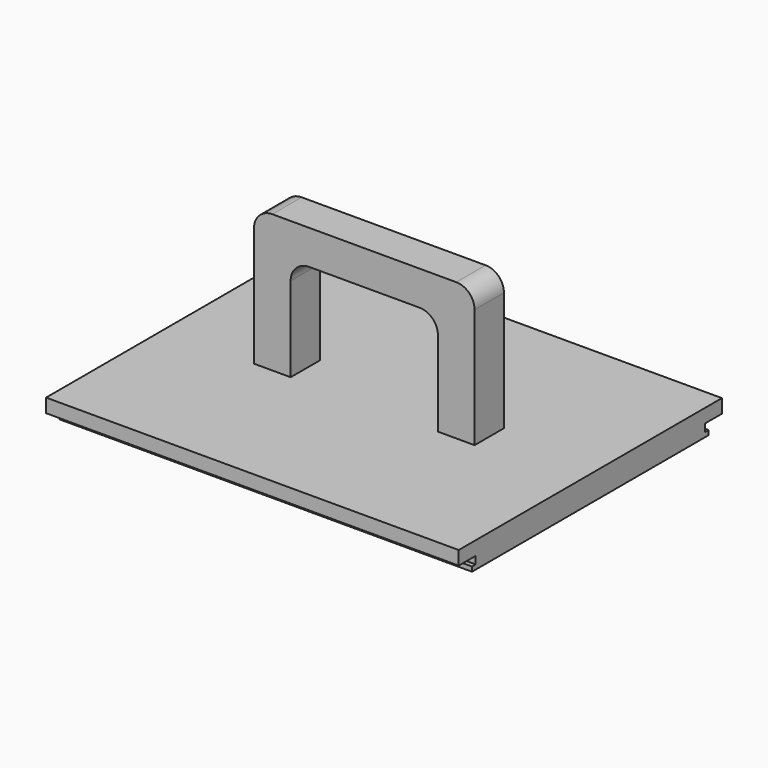
from build123d import *

# Parameters (mm, degrees)
F0_W     = 228.6
F0_H     = 182.245
F1_DEPTH = 7.62
F2_W     = 228.6
F2_H     = 158.7754
F3_DEPTH = 6.731
F4_W     = 2.54
F4_H     = 2.54
F5_DEPTH = 228.6
F6_W     = 20.32
F6_H     = 20.32
F7_DEPTH = 76.2
F8_W     = 81.5747073555
F8_H     = 20.3200148768
F9_DEPTH = 19.05
F10_R    = 10.16


with BuildPart() as f1:
    # F0 (on Top) → F1 (new body)
    with BuildSketch(Plane.XY):
        with Locations((53.7457112223, 38.7887536495)):
            Rectangle(F0_W, F0_H)
    extrude(amount=F1_DEPTH)

    # F2 (on face) → F3 (join)
    with BuildSketch(Plane(origin=(0, 0, 0), x_dir=(1, 0, 0), z_dir=(0, 0, -1))):
        with Locations((53.7457112223, -38.7887536495)):
            Rectangle(F2_W, F2_H)
    extrude(amount=F3_DEPTH)

    # F4 (on face) → F5 (join)
    with BuildSketch(Plane.YZ.offset(168.0457112223)):
        with Locations((119.4464536495, -5.461)):
            Rectangle(F4_W, F4_H)
        with Locations((-41.8689463505, -5.461)):
            Rectangle(F4_W, F4_H)
    extrude(amount=-F5_DEPTH)

    # F6 (on face) → F7 (join)
    with BuildSketch(Plane.XY.offset(7.62)):
        with Locations((0, 38.7887536495)):
            Rectangle(F6_W, F6_H)
        Polygon((101.8946701026, 48.9487536495), (91.7346701026, 48.9487536495), (91.7346701026, 28.6287536495), (112.0546701026, 28.6287536495), (112.0546701026, 48.9487536495), align=None)
    extrude(amount=F7_DEPTH)

    # F8 (on face) → F9 (join)
    with BuildSketch(Plane.XY.offset(83.82)):
        with Locations((50.9473536777, 38.7887610879)):
            Rectangle(F8_W, F8_H)
    extrude(amount=-F9_DEPTH)

    # F10
    f10_edges = [f1.edges().sort_by_distance(p)[0] for p in [
        (-10.16, 38.788754, 83.82),
        (112.05467, 38.788754, 83.82),
        (10.16, 38.788754, 64.77),
        (91.73467, 38.788754, 64.77),
    ]]
    fillet(f10_edges, radius=F10_R)


solid = f1.part
